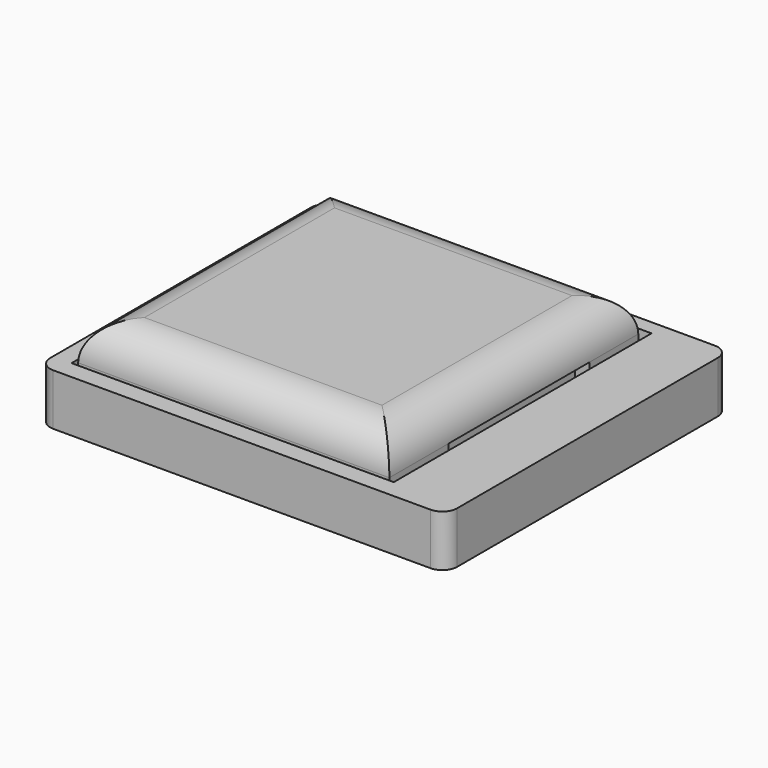
from build123d import *

# Parameters (mm, degrees)
F0_W      = 42.25
F0_H      = 42.25
F1_DEPTH  = 10
F2_R      = 5
F3_W      = 24
F3_H      = 5
F4_DEPTH  = 2
F6_W      = 48.25
F6_H      = 48.25
F7_DEPTH  = 2
F8_DEPTH  = 5
F9_W      = 3
F9_H      = 24
F10_DEPTH = 25
F11_W     = 4.5
F11_H     = 10
F11_H_2   = 28.25
F11_W_2   = 9
F11_H_3   = 4.75
F11_H_4   = 3
F12_DEPTH = 4
F16_DEPTH = 2
F20_W     = 25
F20_H     = 25
F21_DEPTH = 2
F23_DEPTH = 7
F24_W     = 11
F24_H     = 48.25
F25_DEPTH = 25
F26_R     = 2
F28_DEPTH = 2
F29_R     = 1
F30_R     = 1
F31_W     = 0.5
F31_H     = 43.75
F31_W_2   = 43.75
F31_H_2   = 0.5
F32_DEPTH = 5


with BuildPart() as f1:
    # F0 (on Top) → F1 (new body)
    with BuildSketch(Plane.XY):
        Rectangle(F0_W, F0_H)
    extrude(amount=F1_DEPTH)

    # F2
    f2_edges = [f1.edges().sort_by_distance(p)[0] for p in [
        (-21.125, 0, 10),
        (0, -21.125, 10),
        (21.125, 0, 10),
        (0, 21.125, 10),
    ]]
    fillet(f2_edges, radius=F2_R)

    # F3 (on face) → F4 (cut)
    with BuildSketch(Plane.YZ.offset(21.125)):
        with Locations((0.875, 2.5)):
            Rectangle(F3_W, F3_H)
    extrude(amount=-F4_DEPTH, mode=Mode.SUBTRACT)


with BuildPart() as f7:
    # F6 (on face) → F7 (new body)
    with BuildSketch(Plane(origin=(0, 0, 0), x_dir=(1, 0, 0), z_dir=(0, 0, -1))):
        Rectangle(F6_W, F6_H)
    extrude(amount=F7_DEPTH)

    # F5 (on face) → F8 (join)
    with BuildSketch(Plane(origin=(0, 0, 0), x_dir=(1, 0, 0), z_dir=(0, 0, -1))):
        Polygon((22.125, -12.875), (22.125, -22.125), (-22.125, -22.125), (-22.125, 22.125), (22.125, 22.125), (22.125, 11.125), (24.125, 11.125), (24.125, 24.125), (-24.125, 24.125), (-24.125, -24.125), (24.125, -24.125), (24.125, -12.875), align=None)
    extrude(amount=-F8_DEPTH)

    # F9 (on face) → F10 (cut)
    with BuildSketch(Plane(origin=(0, 0, -2), x_dir=(1, 0, 0), z_dir=(0, 0, -1))):
        with Locations((22.625, -0.875)):
            Rectangle(F9_W, F9_H)
    extrude(amount=-F10_DEPTH, mode=Mode.SUBTRACT)

    # F11 (on face) → F12 (join)
    with BuildSketch(Plane(origin=(0, 0, -2), x_dir=(1, 0, 0), z_dir=(0, 0, -1))):
        Polygon((24.125, 24.125), (24.125, 17.125), (33.125, 17.125), (33.125, 14.125), (37.625, 14.125), (37.625, 24.125), align=None)
        with Locations((39.875, 19.125)):
            Rectangle(F11_W, F11_H)
        with Locations((35.375, 0)):
            Rectangle(F11_W, F11_H_2)
        with Locations((39.875, 0)):
            Rectangle(F11_W, F11_H_2)
        Polygon((37.625, -14.125), (33.125, -14.125), (33.125, -18.875), (24.125, -18.875), (24.125, -24.125), (37.625, -24.125), align=None)
        with Locations((39.875, -19.125)):
            Rectangle(F11_W, F11_H)
        Polygon((24.125, 14.125), (24.125, 11.125), (27.125, 11.125), (27.125, -12.875), (24.125, -12.875), (24.125, -14.125), (33.125, -14.125), (33.125, 14.125), align=None)
        with Locations((28.625, -16.5)):
            Rectangle(F11_W_2, F11_H_3)
        with Locations((28.625, 15.625)):
            Rectangle(F11_W_2, F11_H_4)
    extrude(amount=-F12_DEPTH)

    # F15 (on offset) → F16 (join)
    with BuildSketch(Plane.XY.offset(3)):
        Polygon((24.125, -24.125), (42.125, -24.125), (42.125, 24.125), (24.125, 24.125), (24.125, 12.875), (27.125, 12.875), (27.125, -11.125), (24.125, -11.125), align=None)
    extrude(amount=F16_DEPTH)

    # F20 (on face) → F21 (cut, through all)
    with BuildSketch(Plane(origin=(0, 0, -2), x_dir=(1, 0, 0), z_dir=(0, 0, -1))):
        Rectangle(F20_W, F20_H)
    extrude(amount=-F21_DEPTH, mode=Mode.SUBTRACT)

    # F22 (on face) → F23 (join, through all)
    with BuildSketch(Plane.XY.offset(5)):
        Polygon((22.125, -24.125), (42.125, -24.125), (42.125, 24.125), (22.125, 24.125), (22.125, 22.125), (22.125, 12.875), (27.125, 12.875), (27.125, -11.125), (22.125, -11.125), (22.125, -22.125), align=None)
    extrude(amount=-F23_DEPTH)

    # F24 (on face) → F25 (cut)
    with BuildSketch(Plane.XY.offset(5)):
        with Locations((36.625, 0)):
            Rectangle(F24_W, F24_H)
    extrude(amount=-F25_DEPTH, mode=Mode.SUBTRACT)

    # F26
    f26_edges = [f7.edges().sort_by_distance(p)[0] for p in [
        (31.125, 24.125, 1.5),
        (-24.125, 24.125, 1.5),
        (-24.125, -24.125, 1.5),
        (31.125, -24.125, 1.5),
        (22.125, -11.125, 2.5),
        (22.125, 12.875, 2.5),
        (12.5, 12.5, -1),
        (-12.5, 12.5, -1),
        (-12.5, -12.5, -1),
        (12.5, -12.5, -1),
    ]]
    fillet(f26_edges, radius=F26_R)

    # F27 (on face) → F28 (join)
    with BuildSketch(Plane.XY.offset(5)):
        with BuildLine():
            Line((22.125, 14.875), (22.125, -13.125))
            ThreePointArc((22.125, -13.125), (22.7107864376, -11.7107864376), (24.125, -11.125))
            Line((24.125, -11.125), (27.125, -11.125))
            Line((27.125, -11.125), (27.125, 12.875))
            Line((27.125, 12.875), (24.125, 12.875))
            ThreePointArc((24.125, 12.875), (22.7107864376, 13.4607864376), (22.125, 14.875))
        make_face()
    extrude(amount=-F28_DEPTH)

    # F29
    f29_edges = [f7.edges().sort_by_distance(p)[0] for p in [
        (22.125, 0.875, 3),
    ]]
    fillet(f29_edges, radius=F29_R)

    # F30
    f30_edges = [f7.edges().sort_by_distance(p)[0] for p in [
        (21.125, -11.125, -1),
        (21.125, 12.875, -1),
    ]]
    fillet(f30_edges, radius=F30_R)

    # F31 (on face) → F32 (join, through all)
    with BuildSketch(Plane.XY.offset(5)):
        with Locations((-21.875, 0.25)):
            Rectangle(F31_W, F31_H)
        with Locations((0.25, -21.875)):
            Rectangle(F31_W_2, F31_H_2)
        with Locations((-21.875, -21.875)):
            Rectangle(F31_W, F31_H_2)
    extrude(amount=-F32_DEPTH)


solid = Compound([f1.part, f7.part])
